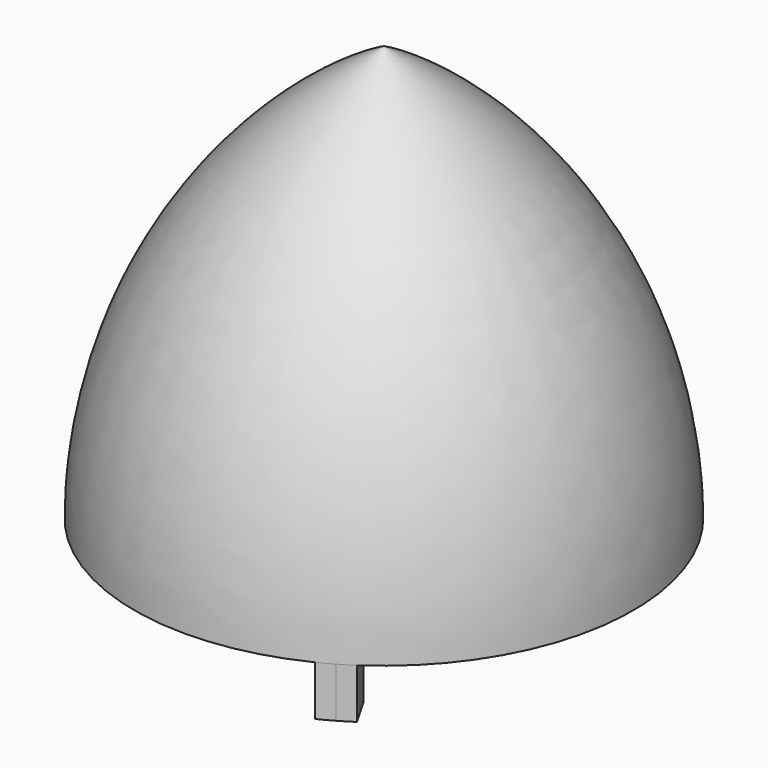
from build123d import *

# Parameters (mm, degrees)
F3_DEPTH = 3
F4_COUNT = 3


with BuildPart() as f1:
    # F0 (on Right) → F1 (revolve)
    with BuildSketch(Plane.YZ):
        with BuildLine():
            Line((-15, 0), (0, 0))
            Line((0, 0), (0, 25))
            ThreePointArc((0, 25), (-10.9011156317, 14.540669379), (-15, 0))
        make_face()
    revolve(axis=Axis((0, 0, 12.5), (0, 0, 1)))

    # F2 (on face) → F3 (join)
    with BuildSketch(Plane(origin=(0, 0, 0), x_dir=(1, 0, 0), z_dir=(0, 0, -1))):
        with BuildLine():
            Line((-13, 0), (-15, 0))
            ThreePointArc((-15, 0), (-14.9916550655, -0.5002783193), (-14.9666295471, -1))
            Line((-14.9666295471, -1), (-13, -1))
            Line((-13, -1), (-13, 0))
        make_face()
        with BuildLine():
            ThreePointArc((-14.9666295471, 1), (-14.9916550655, 0.5002783193), (-15, 0))
            Line((-15, 0), (-13, 0))
            Line((-13, 0), (-13, 1))
            Line((-13, 1), (-14.9666295471, 1))
        make_face()
    extrude(amount=F3_DEPTH)

    # F4: F1 ×3 about axis
    f4_axis = Axis((0, 0, 12.5), (0, 0, 1))


with BuildPart() as f1_1:
    add(f1.part)
    for i in range(1, F4_COUNT):
        add(f1.part.rotate(f4_axis, i * 360 / F4_COUNT))


solid = f1_1.part
